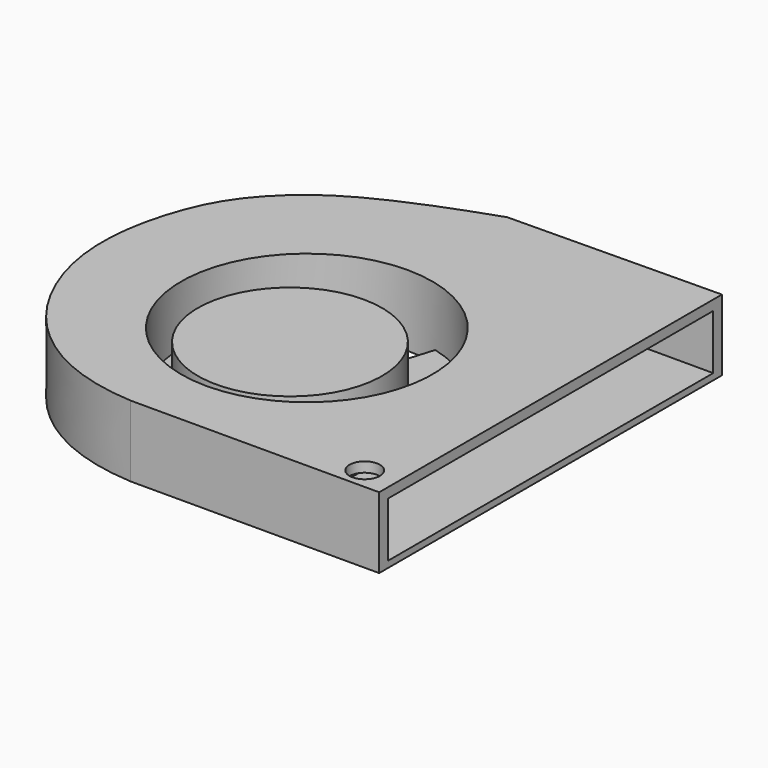
from build123d import *

# Parameters (mm, degrees)
SKETCH006_R             = 10.24367
SKETCH006_R_2           = 1.237403
PAD005_DEPTH            = 5.8
PAD006_DEPTH            = 1
SKETCH008_R             = 7.5076691177
PAD007_DEPTH            = 5
SKETCH009_W             = 33.111977
SKETCH009_H             = 4.462531
POCKET001_DEPTH         = 9
BODY001_PLACEMENT_ANGLE = 90


with BuildPart() as part:
    # Sketch006 → Pad005 (new body)
    with BuildSketch(Plane.XY):
        with BuildLine():
            Line((-18.4256, -1.34093), (-18.409945, -21.590897))
            Line((-18.409945, -21.590897), (16.494272, -21.597601))
            Line((16.494272, -21.597601), (16.2785, -4.27596))
            add(Edge.make_bspline(
                [(-18.4256, -1.34093), (-17.942909, 6.597493), (-8.092874, 14.805856), (3.694337, 13.295516), (9.670027, 9.683837), (13.4539, 4.00771), (16.2785, -4.27596)],
                knots=[0, 0, 0, 0, 0.25, 0.5, 0.75, 1, 1, 1, 1], degree=3))
        make_face()
        with Locations((-3.602271, -3.847481)):
            Circle(SKETCH006_R, mode=Mode.SUBTRACT)
        with Locations((-16.625307, -18.983036)):
            Circle(SKETCH006_R_2, mode=Mode.SUBTRACT)
    extrude(amount=PAD005_DEPTH)

    # Sketch007 → Pad006 (join)
    with BuildSketch(Plane.XY):
        Polygon((-8.077186, 5.935153), (-7.114697, 3.787175), (-10.68287, -7.783438), (-12.927779, -9.78625), (-8.900146, -13.417724), (-6.14903, -9.720223), (0.343604, -8.795849), (5.141551, -10.468527), (6.924273, -6.550939), (2.544497, -5.208394), (-3.520839, 4.178236), (-4.27353, 7.000822), align=None)
    extrude(amount=PAD006_DEPTH)

    # Sketch008 → Pad007 (join)
    with BuildSketch(Plane.XY):
        with Locations((-4.582225, -3.257763)):
            Circle(SKETCH008_R)
    extrude(amount=PAD007_DEPTH)

    # Sketch009 (on Face3 of Pad007) → Pocket001 (cut)
    with BuildSketch(Plane(origin=(-0.0041476098, -21.5944321736, 0), x_dir=(0.9999999816, -0.0001920685, 0), z_dir=(-0.0001920685, -0.9999999816, 0))):
        with Locations((-0.9438935, 2.7535015)):
            Rectangle(SKETCH009_W, SKETCH009_H)
    extrude(amount=-POCKET001_DEPTH, mode=Mode.SUBTRACT)


with BuildPart() as part_1:
    # Body001 placement: moved
    add(part.part.moved(Location((-47, -2.9, 4))).rotate(Axis((-47, -2.9, 4), (0, 0, 1)), BODY001_PLACEMENT_ANGLE))


solid = part_1.part
